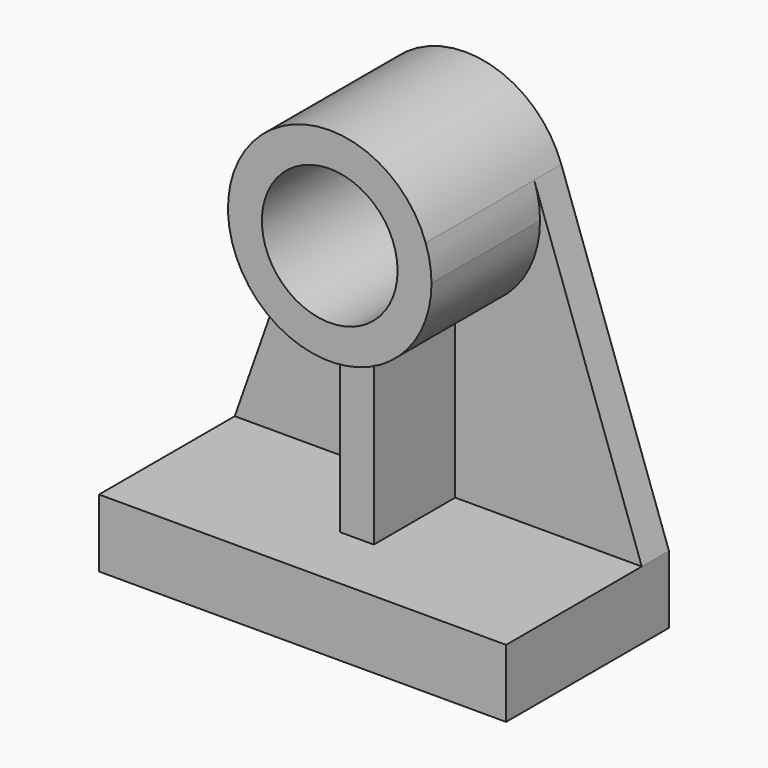
from build123d import *

# Parameters (mm, degrees)
F0_R     = 50.8
F1_DEPTH = 127
F2_DEPTH = 152.4
F3_DEPTH = 101.6
F4_DEPTH = 25.4


with BuildPart() as f1:
    # F0 (on Front) → F1 (new body)
    with BuildSketch(Plane.XZ):
        with BuildLine():
            ThreePointArc((71.868134, 177.321456), (0, 228.195356), (-71.868134, 177.321456))
            ThreePointArc((-71.868134, 177.321456), (-65.658289, 113.324578), (-12.7, 76.861143))
            ThreePointArc((-12.7, 76.861143), (0, 75.795356), (12.7, 76.861143))
            ThreePointArc((12.7, 76.861143), (58.198711, 102.808467), (76.2, 151.995356))
            ThreePointArc((76.2, 151.995356), (75.109226, 164.842305), (71.868134, 177.321456))
        make_face()
        with Locations((0, 151.995356)):
            Circle(F0_R, mode=Mode.SUBTRACT)
    extrude(amount=F1_DEPTH)


with BuildPart() as f2:
    # F0 (on Front) → F2 (new body)
    with BuildSketch(Plane.XZ):
        Polygon((-12.7, -51.204644), (-152.4, -51.204644), (-152.4, -102.004644), (152.4, -102.004644), (152.4, -51.204644), (12.7, -51.204644), align=None)
    extrude(amount=F2_DEPTH)


with BuildPart() as f3:
    # F0 (on Front) → F3 (new body)
    with BuildSketch(Plane.XZ):
        with BuildLine():
            Line((-12.7, 76.861143), (-12.7, -51.204644))
            Line((-12.7, -51.204644), (12.7, -51.204644))
            Line((12.7, -51.204644), (12.7, 76.861143))
            ThreePointArc((12.7, 76.861143), (0, 75.795356), (-12.7, 76.861143))
        make_face()
    extrude(amount=F3_DEPTH)


with BuildPart() as f4:
    # F0 (on Front) → F4 (new body)
    with BuildSketch(Plane.XZ):
        with BuildLine():
            Line((-71.868134, 177.321456), (-152.4, -51.204644))
            Line((-152.4, -51.204644), (-12.7, -51.204644))
            Line((-12.7, -51.204644), (-12.7, 76.861143))
            ThreePointArc((-12.7, 76.861143), (-65.658289, 113.324578), (-71.868134, 177.321456))
        make_face()
        with BuildLine():
            Line((12.7, 76.861143), (12.7, -51.204644))
            Line((12.7, -51.204644), (152.4, -51.204644))
            Line((152.4, -51.204644), (71.868134, 177.321456))
            ThreePointArc((71.868134, 177.321456), (75.109226, 164.842305), (76.2, 151.995356))
            ThreePointArc((76.2, 151.995356), (58.198711, 102.808467), (12.7, 76.861143))
        make_face()
    extrude(amount=F4_DEPTH)


solid = Compound([f1.part, f2.part, f3.part, f4.part])
